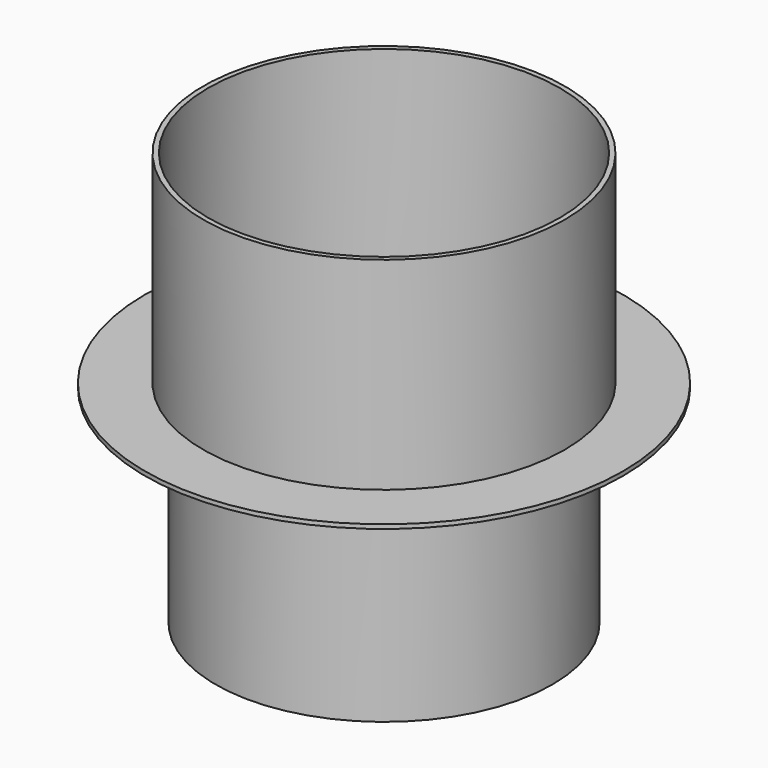
from build123d import *

# Parameters (mm, degrees)
F0_R     = 40.75
F0_R_2   = 39.55
F1_DEPTH = 50
F0_R_3   = 57.8499995172
F0_R_4   = 43.75
F0_R_5   = 42.55
F2_DEPTH = 1
F3_DEPTH = 50


with BuildPart() as f1:
    # F0 (on Top) → F1 (new body)
    with BuildSketch(Plane.XY):
        Circle(F0_R)
        Circle(F0_R_2, mode=Mode.SUBTRACT)
    extrude(amount=-F1_DEPTH)

    # F0 (on Top) → F2 (join)
    with BuildSketch(Plane.XY):
        Circle(F0_R_3)
        Circle(F0_R_4, mode=Mode.SUBTRACT)
        Circle(F0_R_4)
        Circle(F0_R_5, mode=Mode.SUBTRACT)
        Circle(F0_R_5)
        Circle(F0_R, mode=Mode.SUBTRACT)
        Circle(F0_R)
        Circle(F0_R_2, mode=Mode.SUBTRACT)
    extrude(amount=F2_DEPTH)

    # F0 (on Top) → F3 (join)
    with BuildSketch(Plane.XY):
        Circle(F0_R_4)
        Circle(F0_R_5, mode=Mode.SUBTRACT)
    extrude(amount=F3_DEPTH)


solid = f1.part
